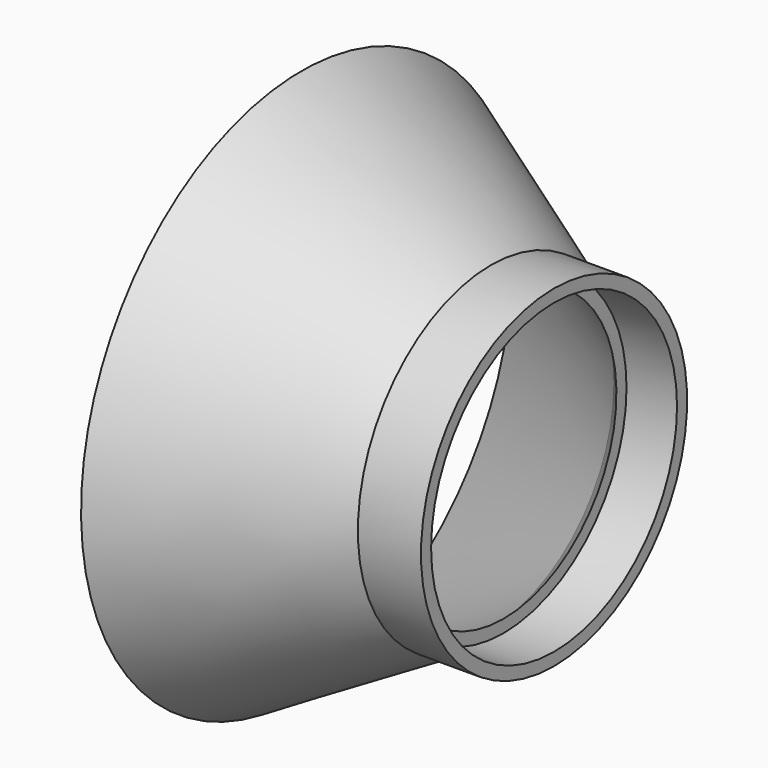
from build123d import *


with BuildPart() as f1:
    # F0 (on Front) → F1 (revolve)
    with BuildSketch(Plane.XZ):
        Polygon((-30, -41.6705080757), (-30, -43.6705080757), (0, -26.35), (10, -26.35), (10, -24.35), (2, -24.35), (2, -22.35), (0, -24.35), align=None)
    revolve(axis=Axis((-15, 0, 0), (-1, 0, 0)))

    # F0 (on Front) → F2 (revolve)
    with BuildSketch(Plane.XZ):
        Polygon((-30, -41.6705080757), (-30, -43.6705080757), (0, -26.35), (10, -26.35), (10, -24.35), (2, -24.35), (2, -22.35), (0, -24.35), align=None)
    revolve(axis=Axis((-15, 0, 0), (-1, 0, 0)))


solid = f1.part
